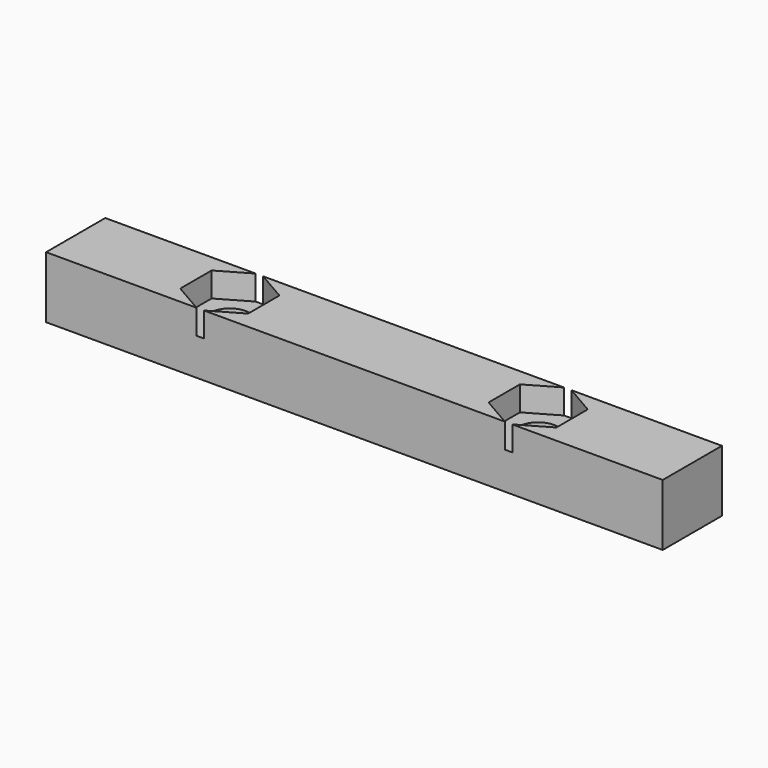
from build123d import *

# Parameters (mm, degrees)
SKETCH_W        = 50
SKETCH_H        = 6
PAD_DEPTH       = 5
SKETCH001_R     = 1.6
POCKET_DEPTH    = 5
POCKET001_DEPTH = 2


with BuildPart() as part:
    # Sketch → Pad (new body)
    with BuildSketch(Plane.XY):
        with Locations((25, 3)):
            Rectangle(SKETCH_W, SKETCH_H)
    extrude(amount=PAD_DEPTH)

    # Sketch001 (on Face6 of Pad) → Pocket (cut)
    with BuildSketch(Plane.XY.offset(5)):
        with Locations((12.5, 3)):
            Circle(SKETCH001_R)
        with Locations((37.5, 3)):
            Circle(SKETCH001_R)
    extrude(amount=-POCKET_DEPTH, mode=Mode.SUBTRACT)

    # Sketch002 (on Face5 of Pocket) → Pocket001 (cut)
    with BuildSketch(Plane.XY.offset(5)):
        Polygon((15.25, 4.587713), (12.5, 6.175426), (9.75, 4.587713), (9.75, 1.412287), (12.5, -0.175426), (15.25, 1.412287), align=None)
        Polygon((40.25, 1.412287), (40.25, 4.587713), (37.5, 6.175426), (34.75, 4.587713), (34.75, 1.412287), (37.5, -0.175426), align=None)
    extrude(amount=-POCKET001_DEPTH, mode=Mode.SUBTRACT)


solid = part.part
